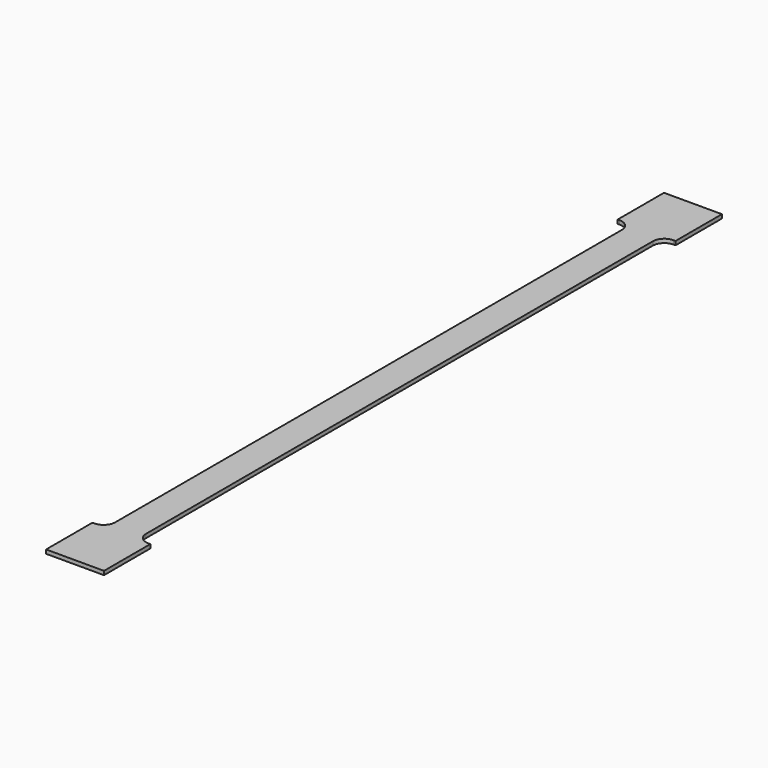
from build123d import *

# Parameters (mm, degrees)
PAD_DEPTH = 2


with BuildPart() as part:
    # Sketch → Pad (new body)
    with BuildSketch(Plane.XY):
        with BuildLine():
            Line((0, 0), (15, 0))
            Line((15, 30), (15, 0))
            Line((14, 30), (15, 30))
            ThreePointArc((8, 36), (9.757359, 31.757359), (14, 30))
            Line((8, 200), (8, 36))
            Line((0, 200), (8, 200))
            Line((0, 200), (-8, 200))
            Line((-8, 200), (-8, 36))
            ThreePointArc((-14, 30), (-9.757359, 31.757359), (-8, 36))
            Line((-14, 30), (-15, 30))
            Line((-15, 30), (-15, 0))
            Line((0, 0), (-15, 0))
        make_face()
    pad = extrude(amount=PAD_DEPTH)

    # Mirrored: Pad across face of Pad
    add(pad.mirror(Plane(origin=(4, 200, 1), x_dir=(-1, 0, 0), z_dir=(0, 1, 0))))


solid = part.part
